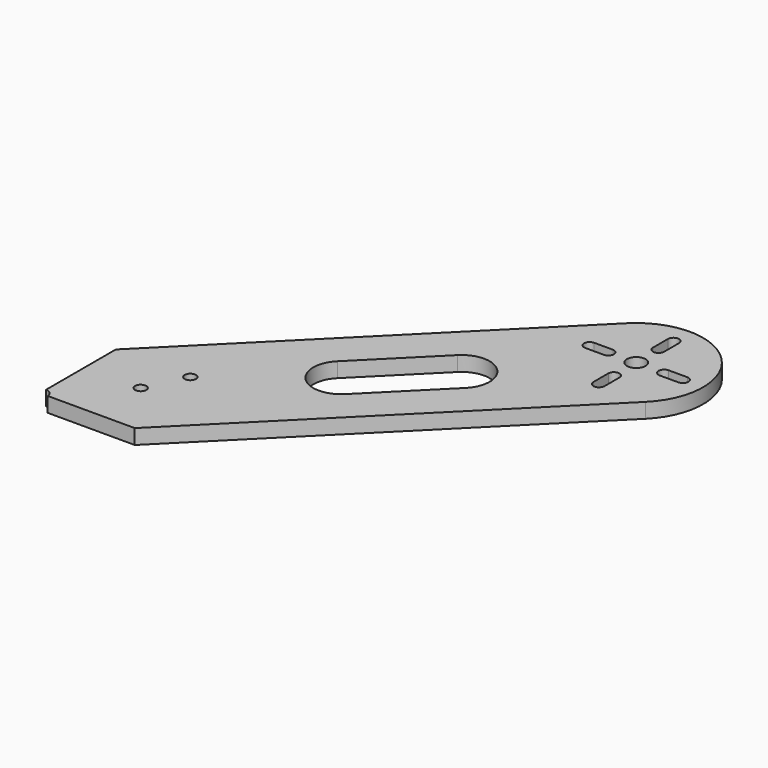
from build123d import *

# Parameters (mm, degrees)
F0_R     = 1.5
F0_R_2   = 2.5
F1_DEPTH = 4


with BuildPart() as f1:
    # F0 (on Top) → F1 (new body)
    with BuildSketch(Plane.XY):
        with BuildLine():
            Line((76.2, 101.6), (0, 25.4))
            Line((0, 25.4), (0, 2))
            ThreePointArc((0, 2), (1.414214, 1.414214), (2, 0))
            Line((2, 0), (25.4, 0))
            Line((25.4, 0), (101.6, 76.2))
            ThreePointArc((101.6, 76.2), (101.6, 101.6), (76.2, 101.6))
        make_face()
        with Locations((15, 15)):
            Circle(F0_R, mode=Mode.SUBTRACT)
        with Locations((20, 25.4)):
            Circle(F0_R, mode=Mode.SUBTRACT)
        with BuildLine():
            Line((68.165094, 57.558492), (50.204581, 39.59798))
            ThreePointArc((50.204581, 39.59798), (39.59798, 39.59798), (39.59798, 50.204581))
            Line((39.59798, 50.204581), (57.558492, 68.165094))
            ThreePointArc((57.558492, 68.165094), (68.165094, 68.165094), (68.165094, 57.558492))
        make_face(mode=Mode.SUBTRACT)
        with BuildLine():
            Line((90.4, 81.4), (90.4, 76.4))
            ThreePointArc((90.4, 76.4), (88.9, 74.9), (87.4, 76.4))
            Line((87.4, 76.4), (87.4, 81.4))
            ThreePointArc((87.4, 81.4), (88.9, 82.9), (90.4, 81.4))
        make_face(mode=Mode.SUBTRACT)
        with BuildLine():
            Line((81.4, 87.4), (76.4, 87.4))
            ThreePointArc((76.4, 87.4), (74.9, 88.9), (76.4, 90.4))
            Line((76.4, 90.4), (81.4, 90.4))
            ThreePointArc((81.4, 90.4), (82.9, 88.9), (81.4, 87.4))
        make_face(mode=Mode.SUBTRACT)
        with Locations((88.9, 88.9)):
            Circle(F0_R_2, mode=Mode.SUBTRACT)
        with BuildLine():
            Line((96.4, 90.4), (101.4, 90.4))
            ThreePointArc((101.4, 90.4), (102.9, 88.9), (101.4, 87.4))
            Line((101.4, 87.4), (96.4, 87.4))
            ThreePointArc((96.4, 87.4), (94.9, 88.9), (96.4, 90.4))
        make_face(mode=Mode.SUBTRACT)
        with BuildLine():
            Line((87.4, 96.4), (87.4, 101.4))
            ThreePointArc((87.4, 101.4), (88.9, 102.9), (90.4, 101.4))
            Line((90.4, 101.4), (90.4, 96.4))
            ThreePointArc((90.4, 96.4), (88.9, 94.9), (87.4, 96.4))
        make_face(mode=Mode.SUBTRACT)
    extrude(amount=F1_DEPTH)


solid = f1.part
